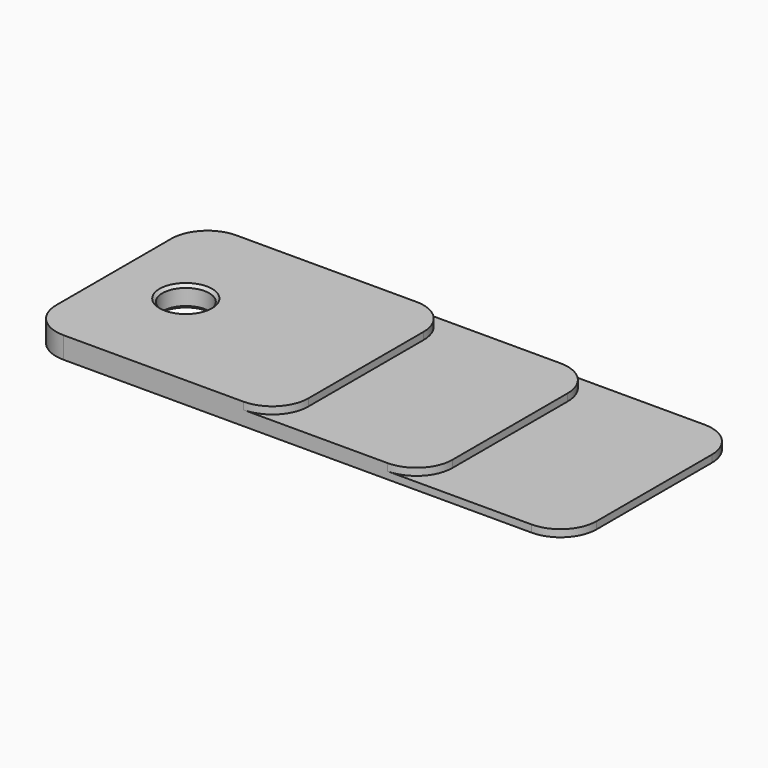
from build123d import *

# Parameters (mm, degrees)
F0_R     = 3.25
F1_DEPTH = 1
F2_R     = 3.25
F3_DEPTH = 1
F4_R     = 3.25
F5_DEPTH = 1
F6_SIZE  = 0.4


with BuildPart() as f1:
    # F0 (on Top) → F1 (new body)
    with BuildSketch(Plane.XY):
        with BuildLine():
            Line((32.5, 15), (-32.5, 15))
            ThreePointArc((-32.5, 15), (-36.035534, 13.535534), (-37.5, 10))
            Line((-37.5, 10), (-37.5, -10))
            ThreePointArc((-37.5, -10), (-36.035534, -13.535534), (-32.5, -15))
            Line((-32.5, -15), (32.5, -15))
            ThreePointArc((32.5, -15), (36.035534, -13.535534), (37.5, -10))
            Line((37.5, -10), (37.5, 10))
            ThreePointArc((37.5, 10), (36.035534, 13.535534), (32.5, 15))
        make_face()
        with Locations((-27.5, 0)):
            Circle(F0_R, mode=Mode.SUBTRACT)
    extrude(amount=F1_DEPTH)

    # F2 (on face) → F3 (join)
    with BuildSketch(Plane.XY.offset(1)):
        with BuildLine():
            Line((12.5, 15), (-32.5, 15))
            ThreePointArc((-32.5, 15), (-36.035534, 13.535534), (-37.5, 10))
            Line((-37.5, 10), (-37.5, -10))
            ThreePointArc((-37.5, -10), (-36.035534, -13.535534), (-32.5, -15))
            Line((-32.5, -15), (12.5, -15))
            ThreePointArc((12.5, -15), (16.035534, -13.535534), (17.5, -10))
            Line((17.5, -10), (17.5, 10))
            ThreePointArc((17.5, 10), (16.035534, 13.535534), (12.5, 15))
        make_face()
        with Locations((-27.5, 0)):
            Circle(F2_R, mode=Mode.SUBTRACT)
    extrude(amount=F3_DEPTH)

    # F4 (on face) → F5 (join)
    with BuildSketch(Plane.XY.offset(2)):
        with BuildLine():
            Line((-7.5, 15), (-32.5, 15))
            ThreePointArc((-32.5, 15), (-36.035534, 13.535534), (-37.5, 10))
            Line((-37.5, 10), (-37.5, -10))
            ThreePointArc((-37.5, -10), (-36.035534, -13.535534), (-32.5, -15))
            Line((-32.5, -15), (-7.5, -15))
            ThreePointArc((-7.5, -15), (-3.964466, -13.535534), (-2.5, -10))
            Line((-2.5, -10), (-2.5, 10))
            ThreePointArc((-2.5, 10), (-3.964466, 13.535534), (-7.5, 15))
        make_face()
        with Locations((-27.5, 0)):
            Circle(F4_R, mode=Mode.SUBTRACT)
    extrude(amount=F5_DEPTH)

    # F6
    f6_edges = [f1.edges().sort_by_distance(p)[0] for p in [
        (-30.75, 0, 3),
        (-30.75, 0, 0),
    ]]
    chamfer(f6_edges, length=F6_SIZE)


solid = f1.part
